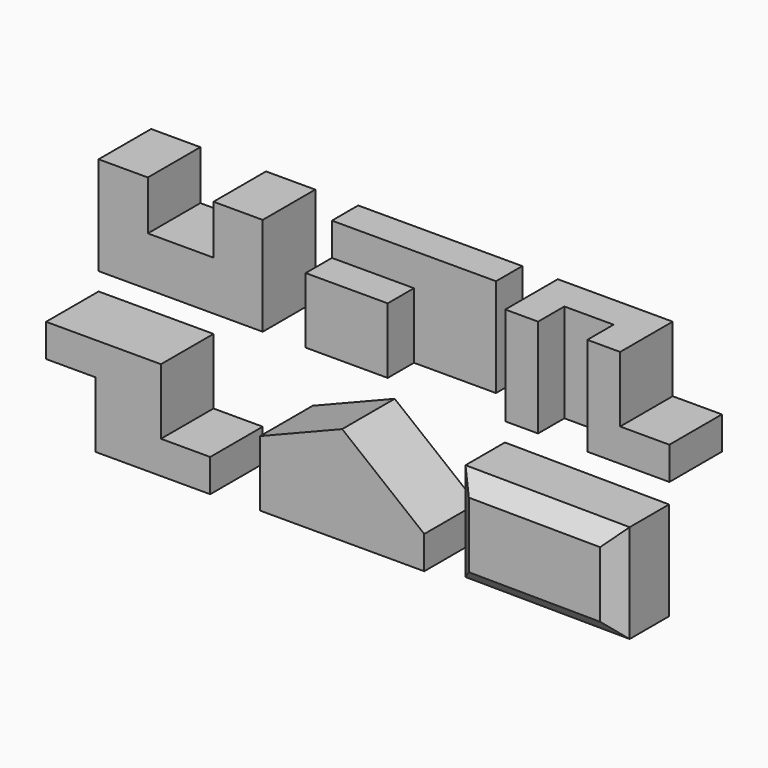
from build123d import *

# Parameters (mm, degrees)
F1_DEPTH  = 101.6
F3_DEPTH  = 152.4
F4_W      = 127
F4_H      = 50.8
F5_DEPTH  = 50.8
F7_DEPTH  = 101.6
F8_W      = 76.2
F8_H      = 50.8
F9_DEPTH  = 152.4
F11_DEPTH = 101.6
F13_DEPTH = 101.6
F15_DEPTH = 101.6
F16_SIZE  = 25.4
F17_SIZE  = 25.4


with BuildPart() as f1:
    # F0 (on Front) → F1 (new body)
    with BuildSketch(Plane.XZ):
        Polygon((0, 152.4), (0, 0), (254, 0), (254, 152.4), (177.8, 152.4), (177.8, 76.2), (76.2, 76.2), (76.2, 152.4), align=None)
    extrude(amount=-F1_DEPTH)


with BuildPart() as f3:
    # F2 (on Top) → F3 (new body)
    with BuildSketch(Plane.XY):
        Polygon((574.41955, 50.8), (574.41955, 101.6), (320.41955, 101.6), (320.41955, 0), (447.41955, 0), (447.41955, 50.8), align=None)
    extrude(amount=F3_DEPTH)

    # F4 (on face) → F5 (cut)
    with BuildSketch(Plane.XZ):
        with Locations((383.91955, 127)):
            Rectangle(F4_W, F4_H)
    extrude(amount=-F5_DEPTH, mode=Mode.SUBTRACT)


with BuildPart() as f7:
    # F6 (on Front) → F7 (new body)
    with BuildSketch(Plane.XZ):
        Polygon((629.346893, 152.4), (629.346893, 0), (883.346893, 0), (883.346893, 50.8), (807.146893, 50.8), (807.146893, 152.4), align=None)
    extrude(amount=-F7_DEPTH)

    # F8 (on face) → F9 (cut)
    with BuildSketch(Plane.XY.offset(152.4)):
        with Locations((718.246893, 25.4)):
            Rectangle(F8_W, F8_H)
    extrude(amount=-F9_DEPTH, mode=Mode.SUBTRACT)


with BuildPart() as f11:
    # F10 (on Front) → F11 (new body)
    with BuildSketch(Plane.XZ):
        Polygon((177.8, -27.683238), (0, -27.683238), (0, -78.483238), (76.2, -78.483238), (76.2, -180.083238), (254, -180.083238), (254, -129.283238), (177.8, -129.283238), align=None)
    extrude(amount=F11_DEPTH)


with BuildPart() as f13:
    # F12 (on Front) → F13 (new body)
    with BuildSketch(Plane.XZ):
        Polygon((331.239105, -177.280673), (585.239105, -177.280673), (585.239105, -126.480673), (458.239105, -24.880673), (331.239105, -75.680673), align=None)
    extrude(amount=F13_DEPTH)


with BuildPart() as f15:
    # F14 (on Front) → F15 (new body)
    with BuildSketch(Plane.XZ):
        Polygon((628.801897, -28.891818), (628.801897, -181.291818), (882.795031, -183.159415), (882.795031, -30.759415), align=None)
    extrude(amount=F15_DEPTH)

    # F16
    f16_edges = [f15.edges().sort_by_distance(p)[0] for p in [
        (755.798464, -101.6, -29.825617),
        (882.795031, -101.6, -106.959415),
        (628.801897, -101.6, -105.091818),
    ]]
    chamfer(f16_edges, length=F16_SIZE)

    # F17
    f17_edges = [f15.edges().sort_by_distance(p)[0] for p in [
        (755.798464, -101.6, -182.225617),
    ]]
    chamfer(f17_edges, length=F17_SIZE)


solid = Compound([f1.part, f3.part, f7.part, f11.part, f13.part, f15.part])
